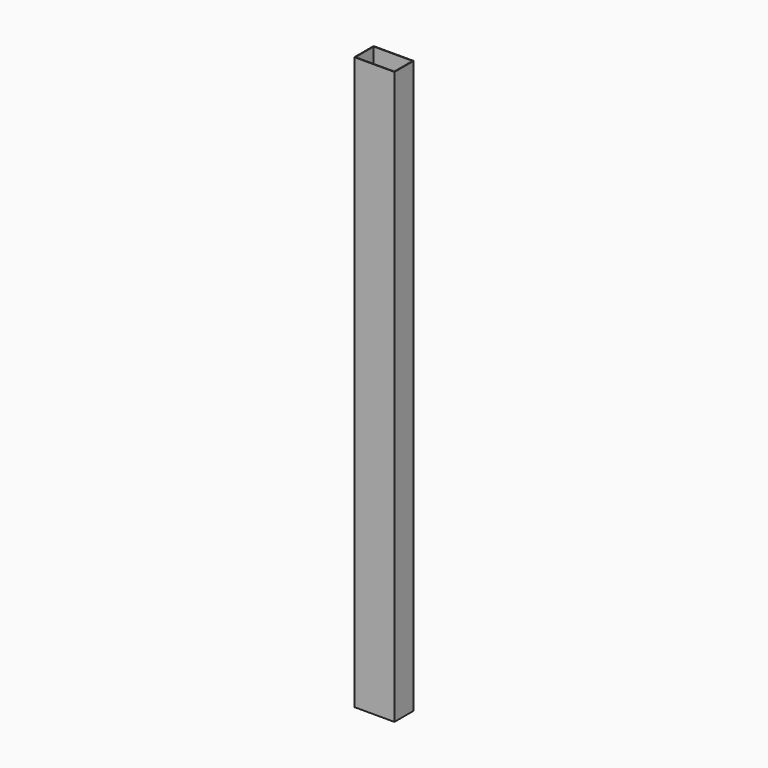
from build123d import *

# Parameters (mm, degrees)
SKETCH_W   = 210
SKETCH_H   = 126
SKETCH_W_2 = 204
SKETCH_H_2 = 120
PAD_DEPTH  = 1500


with BuildPart() as part:
    # Sketch → Pad (new body, symmetric)
    with BuildSketch(Plane.XY):
        Rectangle(SKETCH_W, SKETCH_H)
        Rectangle(SKETCH_W_2, SKETCH_H_2, mode=Mode.SUBTRACT)
    extrude(amount=PAD_DEPTH, both=True)


solid = part.part
